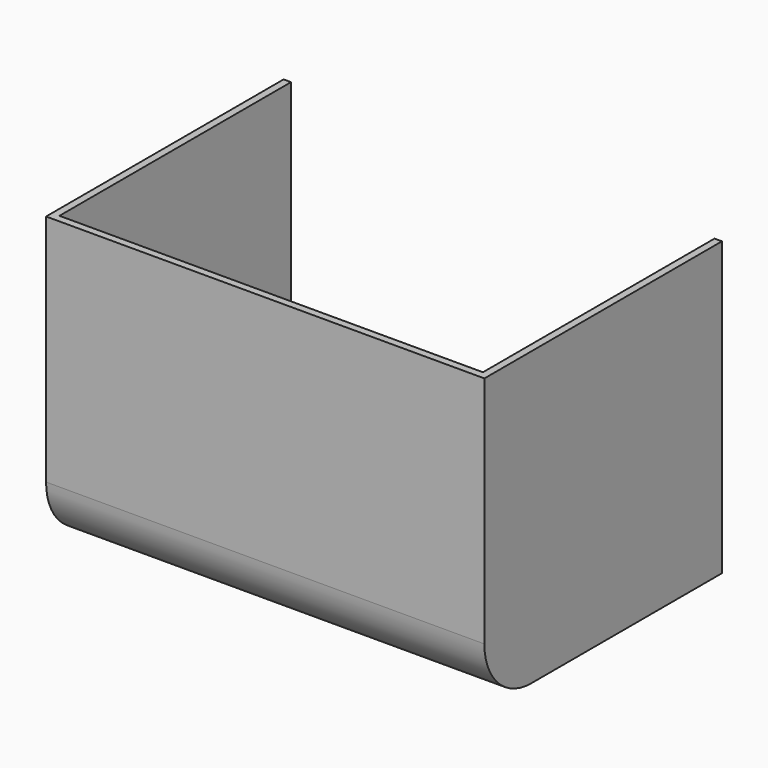
from build123d import *

# Parameters (mm, degrees)
F0_W     = 150
F0_H     = 100
F1_DEPTH = 101.6
F2_R     = 20
F3_T     = -2.54


with BuildPart() as f1:
    # F0 (on Front) → F1 (new body)
    with BuildSketch(Plane.XZ):
        with Locations((-35.558602, -17.734206)):
            Rectangle(F0_W, F0_H)
    extrude(amount=F1_DEPTH)

    # F2
    f2_edges = [f1.edges().sort_by_distance(p)[0] for p in [
        (-35.558602, -101.6, -67.734206),
    ]]
    fillet(f2_edges, radius=F2_R)

    # F3
    f3_openings = [f1.faces().sort_by_distance(p)[0] for p in [
        (-35.558602, 0, -17.734206),
        (-35.558602, -50.8, 32.265794),
    ]]
    offset(amount=F3_T, openings=f3_openings)


solid = f1.part
